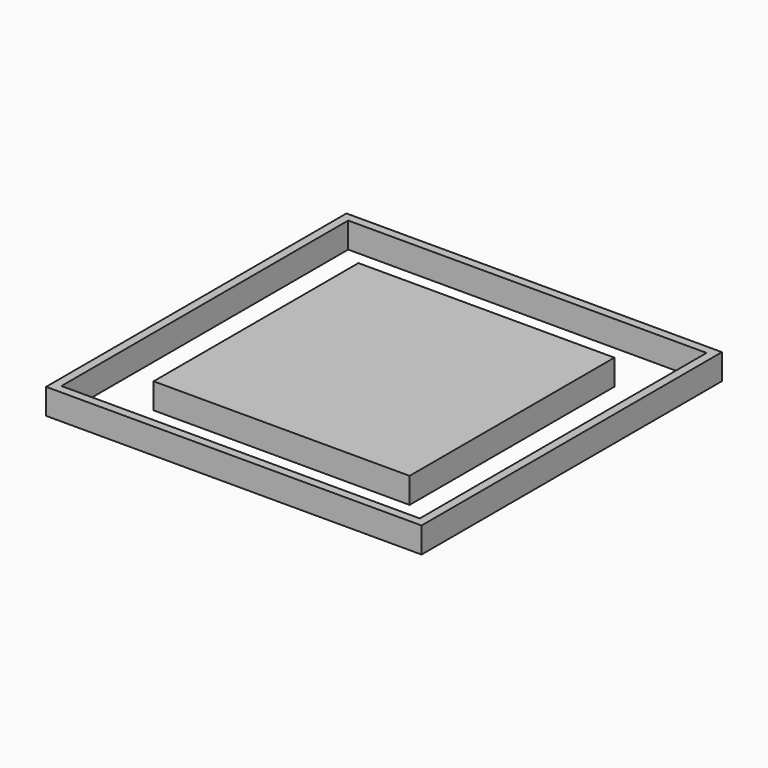
from build123d import *

# Parameters (mm, degrees)
F0_W     = 44
F0_H     = 44
F0_W_2   = 42
F0_H_2   = 42
F0_W_3   = 30
F0_H_3   = 30
F1_DEPTH = 3
F2_DEPTH = 3


with BuildPart() as f1:
    # F0 (on Top) → F1 (new body)
    with BuildSketch(Plane.XY):
        Rectangle(F0_W, F0_H)
        Rectangle(F0_W_2, F0_H_2, mode=Mode.SUBTRACT)
        Rectangle(F0_W_3, F0_H_3)
    extrude(amount=F1_DEPTH)

    # F0 (on Top) → F2 (join)
    with BuildSketch(Plane.XY):
        Rectangle(F0_W, F0_H)
        Rectangle(F0_W_2, F0_H_2, mode=Mode.SUBTRACT)
    extrude(amount=F2_DEPTH)


solid = f1.part
